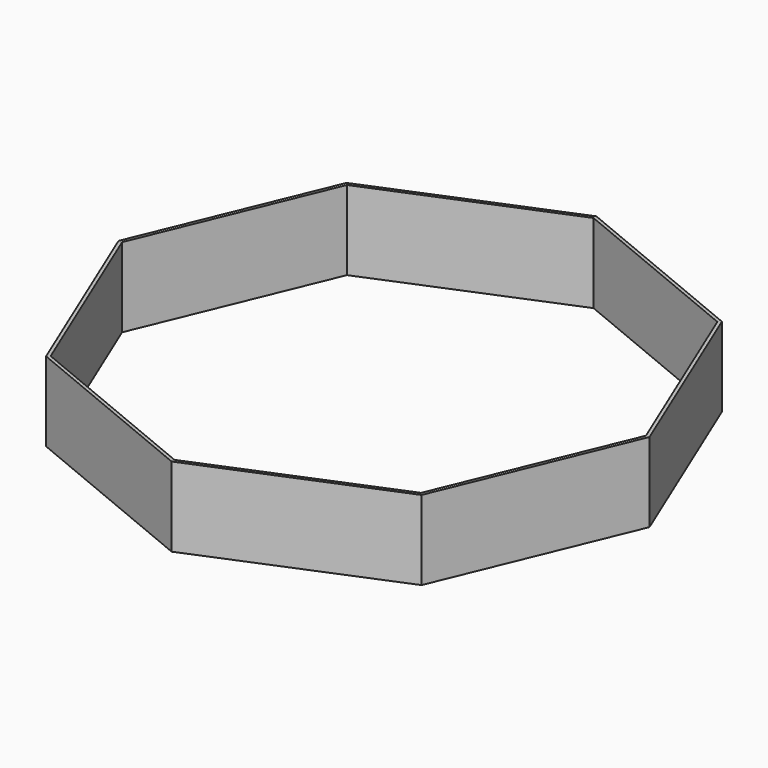
from build123d import *

# Parameters (mm, degrees)
F1_DEPTH = 914.4


with BuildPart() as f1:
    # F0 (on Top) → F1 (new body)
    with BuildSketch(Plane.XY):
        Polygon((0, 3017.682857), (0, 3058.922), (-2162.984489, 2162.984489), (-2133.824012, 2133.824012), align=None)
        Polygon((2133.824012, 2133.824012), (2162.984489, 2162.984489), (0, 3058.922), (0, 3017.682857), align=None)
        Polygon((3017.682857, 0), (3058.922, 0), (2162.984489, 2162.984489), (2133.824012, 2133.824012), align=None)
        Polygon((0, -3058.922), (2162.984489, -2162.984489), (2133.824012, -2133.824012), (0, -3017.682857), align=None)
        Polygon((2162.984489, -2162.984489), (3058.922, 0), (3017.682857, 0), (2133.824012, -2133.824012), align=None)
        Polygon((-2162.984489, -2162.984489), (0, -3058.922), (0, -3017.682857), (-2133.824012, -2133.824012), align=None)
        Polygon((-3058.922, 0), (-2162.984489, -2162.984489), (-2133.824012, -2133.824012), (-3017.682857, 0), align=None)
        Polygon((-2133.824012, 2133.824012), (-2162.984489, 2162.984489), (-3058.922, 0), (-3017.682857, 0), align=None)
    extrude(amount=F1_DEPTH)


solid = f1.part
